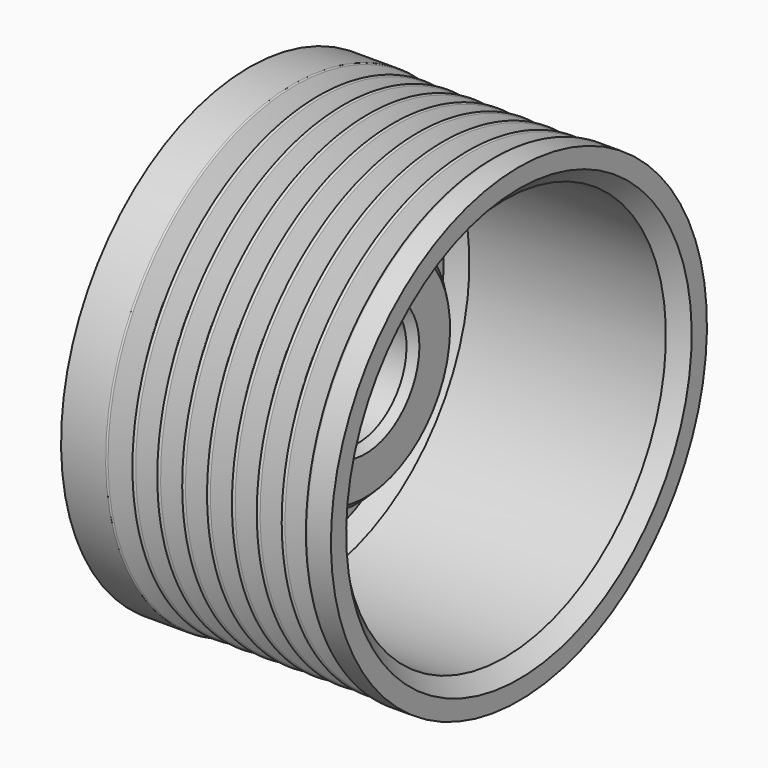
from build123d import *

# Parameters (mm, degrees)
F4_SIZE = 2
F5_SIZE = 1
F6_R    = 0.25


with BuildPart() as f1:
    # F0 (on Front) → F1 (revolve)
    with BuildSketch(Plane.XZ):
        Polygon((-38.134426, 16.175), (-38.134426, 8.43), (-13.834426, 8.43), (-13.834426, 15.79), (-23.834426, 15.79), (-23.834426, 28.165), (7.615574, 28.165), (7.615574, 32.83), (-30.084426, 32.83), (-30.084426, 20.335), align=None)
    revolve(axis=Axis((-25.920492, 0, 0), (1, 0, 0)))

    # F2 (on Front) → F3 (revolve, cut)
    with BuildSketch(Plane.XZ):
        Polygon((-20.229426, 32.83), (-23.704426, 32.83), (-21.966926, 29.43), align=None)
        Polygon((4.095574, 32.83), (0.620574, 32.83), (2.358074, 29.43), align=None)
        Polygon((0.620574, 32.83), (-2.854426, 32.83), (-1.116926, 29.43), align=None)
        Polygon((-2.854426, 32.83), (-6.329426, 32.83), (-4.591926, 29.43), align=None)
        Polygon((-6.329426, 32.83), (-9.804426, 32.83), (-8.066926, 29.43), align=None)
        Polygon((-9.804426, 32.83), (-13.279426, 32.83), (-11.541926, 29.43), align=None)
        Polygon((-13.279426, 32.83), (-16.754426, 32.83), (-15.016926, 29.43), align=None)
        Polygon((-16.754426, 32.83), (-20.229426, 32.83), (-18.491926, 29.43), align=None)
    revolve(axis=Axis((-25.920492, 0, 0), (1, 0, 0)), mode=Mode.SUBTRACT)

    # F4
    f4_edges = [f1.edges().sort_by_distance(p)[0] for p in [
        (-23.834426, 0, -28.165),
        (7.615574, 0, -28.165),
        (-8.109426, 0, 28.165),
    ]]
    chamfer(f4_edges, length=F4_SIZE)

    # F5
    f5_edges = [f1.edges().sort_by_distance(p)[0] for p in [
        (-13.834426, 0, -8.43),
        (-13.834426, 0, -15.79),
    ]]
    chamfer(f5_edges, length=F5_SIZE)

    # F6
    f6_edges = [f1.edges().sort_by_distance(p)[0] for p in [
        (-19.360676, 0, 31.13),
        (-18.491926, 0, -29.43),
        (-20.229426, 0, -32.83),
        (-23.704426, 0, -32.83),
        (-21.966926, 0, -29.43),
        (-22.835676, 0, 31.13),
        (-17.623176, 0, 31.13),
        (-16.754426, 0, -32.83),
        (-15.885676, 0, 31.13),
        (-15.016926, 0, -29.43),
        (-14.148176, 0, 31.13),
        (-13.279426, 0, -32.83),
        (-12.410676, 0, 31.13),
        (-11.541926, 0, -29.43),
        (-10.673176, 0, 31.13),
        (-9.804426, 0, -32.83),
        (-8.935676, 0, 31.13),
        (-8.066926, 0, -29.43),
        (-7.198176, 0, 31.13),
        (-6.329426, 0, -32.83),
        (-5.460676, 0, 31.13),
        (-4.591926, 0, -29.43),
        (-3.723176, 0, 31.13),
        (-2.854426, 0, -32.83),
        (-1.985676, 0, 31.13),
        (-1.116926, 0, -29.43),
        (-0.248176, 0, 31.13),
        (0.620574, 0, -32.83),
        (1.489324, 0, 31.13),
        (2.358074, 0, -29.43),
        (4.095574, 0, -32.83),
        (3.226824, 0, 31.13),
    ]]
    fillet(f6_edges, radius=F6_R)


solid = f1.part
